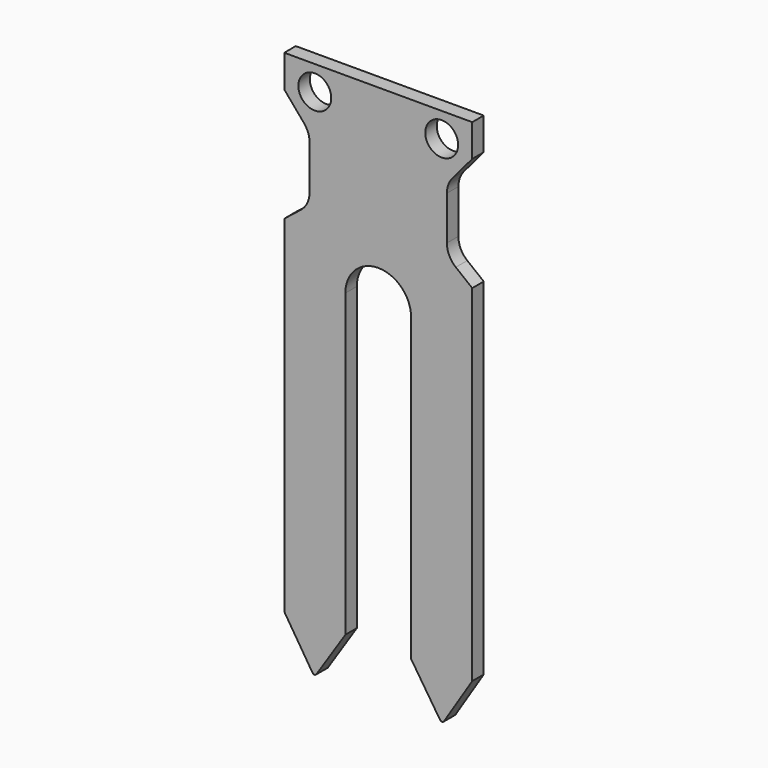
from build123d import *

# Parameters (mm, degrees)
F0_R     = 1.75
F1_DEPTH = 1.53
F2_R     = 0.25
F3_R     = 2.5


with BuildPart() as f1:
    # F0 (on Front) → F1 (new body)
    with BuildSketch(Plane.XZ):
        with BuildLine():
            Line((10, 0), (0, 0))
            Line((0, 0), (-10, 0))
            Line((-10, 0), (-10, -3.44))
            Line((-10, -3.44), (-7.303071, -6.615652))
            Line((-7.303071, -6.615652), (-7.303071, -13.405652))
            Line((-7.303071, -13.405652), (-10, -15.541108))
            Line((-10, -15.541108), (-10, -52.352146))
            Line((-10, -52.352146), (-6.78713, -57.41944))
            Line((-6.78713, -57.41944), (-3.5, -52.4))
            Line((-3.5, -52.4), (-3.5, -20.4))
            ThreePointArc((-3.5, -20.4), (-2.474874, -17.925126), (0, -16.9))
            ThreePointArc((0, -16.9), (2.474874, -17.925126), (3.5, -20.4))
            Line((3.5, -20.4), (3.5, -52.4))
            Line((3.5, -52.4), (6.78713, -57.41944))
            Line((6.78713, -57.41944), (10, -52.352146))
            Line((10, -52.352146), (10, -15.541108))
            Line((10, -15.541108), (7.303071, -13.405652))
            Line((7.303071, -13.405652), (7.303071, -6.615652))
            Line((7.303071, -6.615652), (10, -3.44))
            Line((10, -3.44), (10, 0))
        make_face()
        with Locations((-6.75, -2.616455)):
            Circle(F0_R, mode=Mode.SUBTRACT)
        with Locations((6.75, -2.616455)):
            Circle(F0_R, mode=Mode.SUBTRACT)
    extrude(amount=F1_DEPTH)

    # F2
    f2_edges = [f1.edges().sort_by_distance(p)[0] for p in [
        (-6.78713, -0.765, -57.41944),
        (6.78713, -0.765, -57.41944),
    ]]
    fillet(f2_edges, radius=F2_R)

    # F3
    f3_edges = [f1.edges().sort_by_distance(p)[0] for p in [
        (-7.303071, -0.765, -13.405652),
        (-7.303071, -0.765, -6.615652),
        (7.303071, -0.765, -6.615652),
        (7.303071, -0.765, -13.405652),
    ]]
    fillet(f3_edges, radius=F3_R)


solid = f1.part
